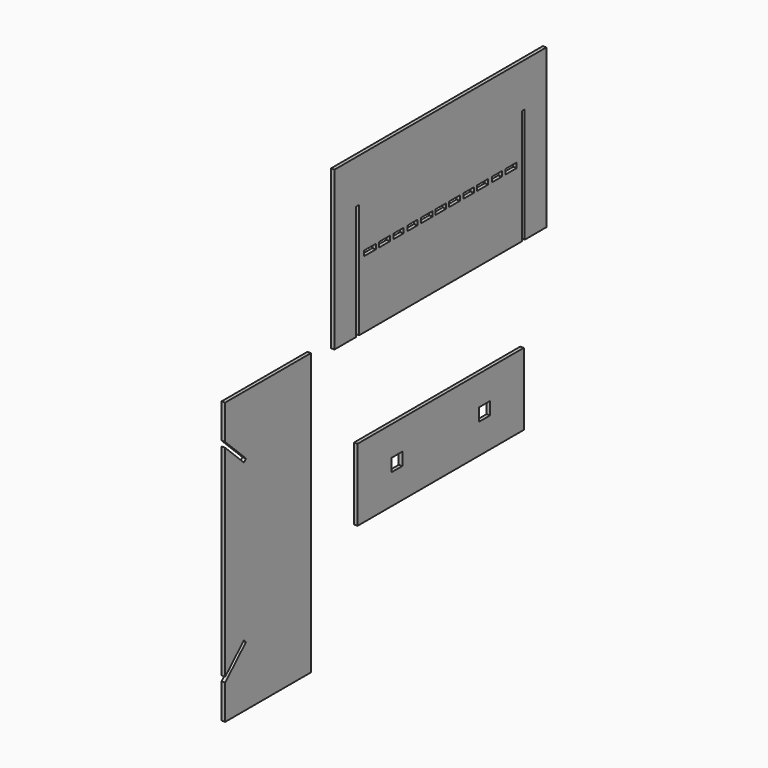
from build123d import *

# Parameters (mm, degrees)
F0_W     = 375.371941
F0_H     = 130.569776
F0_W_2   = 24.831633
F0_H_2   = 23.056487
F0_W_3   = 26.62291
F0_H_3   = 8.975066
F0_W_4   = 24.726913
F0_W_5   = 23.059815
F0_W_6   = 23.057102
F0_W_7   = 26.05096
F0_W_8   = 23.932469
F0_W_9   = 24.255397
F0_W_10  = 23.922292
F0_W_11  = 25.718499
F0_W_12  = 22.654171
F0_W_13  = 25.46921
F1_DEPTH = 6.35


with BuildPart() as f1:
    # F0 (on Right) → F1 (new body)
    with BuildSketch(Plane.YZ):
        Polygon((-271.421876, 330.485767), (-465.15853, 330.485767), (-465.15853, 267.863764), (-418.248745, 222.587234), (-422.835025, 217.835514), (-465.15853, 258.685443), (-465.15853, -105.713909), (-422.835025, -64.863979), (-418.248745, -69.6157), (-465.15853, -114.89223), (-465.15853, -177.514233), (-271.421876, -177.514233), align=None)
        with Locations((21.641564, 78.073309)):
            Rectangle(F0_W, F0_H)
        with Locations((-77.560084, 78.329652)):
            Rectangle(F0_W_2, F0_H_2, mode=Mode.SUBTRACT)
        with Locations((120.843211, 78.329652)):
            Rectangle(F0_W_2, F0_H_2, mode=Mode.SUBTRACT)
        Polygon((260.338359, 600.658462), (-218.273673, 600.658462), (-218.273673, 314.511762), (-169.325112, 314.511762), (-169.325112, 521.91418), (-162.721112, 521.91418), (-162.721112, 314.511762), (204.785798, 314.511762), (204.785798, 521.91418), (211.389798, 521.91418), (211.389798, 314.511762), (260.338359, 314.511762), align=None)
        with Locations((-138.102722, 440.31387)):
            Rectangle(F0_W_3, F0_H_3, mode=Mode.SUBTRACT)
        with Locations((-104.955673, 440.31387)):
            Rectangle(F0_W_4, F0_H_3, mode=Mode.SUBTRACT)
        with Locations((-73.592881, 440.31387)):
            Rectangle(F0_W_5, F0_H_3, mode=Mode.SUBTRACT)
        with Locations((-42.228721, 440.31387)):
            Rectangle(F0_W_6, F0_H_3, mode=Mode.SUBTRACT)
        with Locations((-9.787129, 440.31387)):
            Rectangle(F0_W_7, F0_H_3, mode=Mode.SUBTRACT)
        with Locations((22.107952, 440.31387)):
            Rectangle(F0_W_8, F0_H_3, mode=Mode.SUBTRACT)
        with Locations((53.111733, 440.31387)):
            Rectangle(F0_W_9, F0_H_3, mode=Mode.SUBTRACT)
        with Locations((84.880201, 440.31387)):
            Rectangle(F0_W_10, F0_H_3, mode=Mode.SUBTRACT)
        with Locations((116.094691, 440.31387)):
            Rectangle(F0_W_11, F0_H_3, mode=Mode.SUBTRACT)
        with Locations((148.349722, 440.31387)):
            Rectangle(F0_W_12, F0_H_3, mode=Mode.SUBTRACT)
        with Locations((180.744258, 440.31387)):
            Rectangle(F0_W_13, F0_H_3, mode=Mode.SUBTRACT)
    extrude(amount=F1_DEPTH)


solid = f1.part
